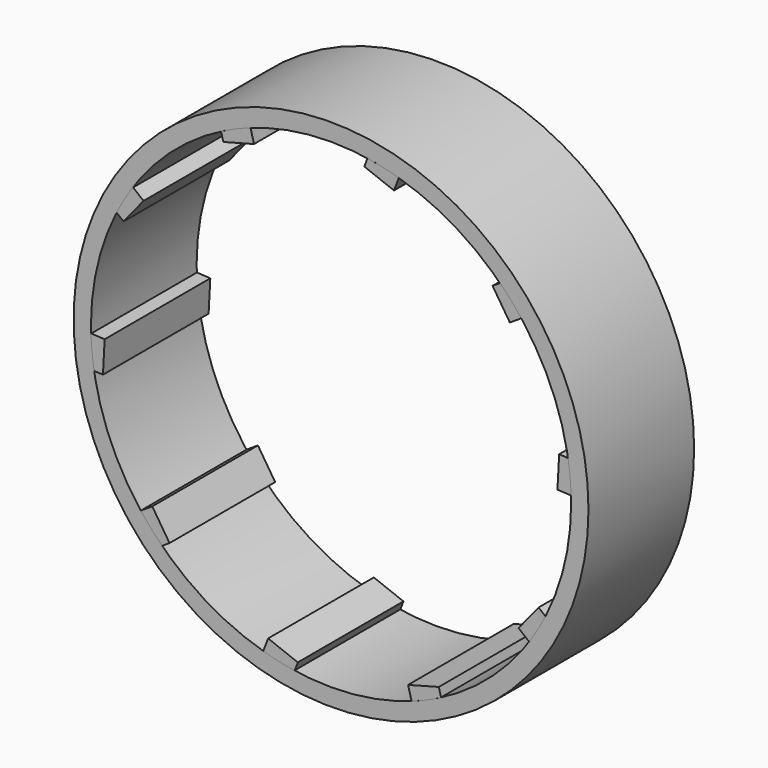
from build123d import *

# Parameters (mm, degrees)
F0_R     = 49.511786
F0_R_2   = 46.178523
F1_DEPTH = 25.4
F3_DEPTH = 25.4
F4_COUNT = 10


with BuildPart() as f1:
    # F0 (on Front) → F1 (new body)
    with BuildSketch(Plane.XZ):
        Circle(F0_R)
        Circle(F0_R_2, mode=Mode.SUBTRACT)
    extrude(amount=F1_DEPTH)


with BuildPart() as f3:
    # F2 (on face) → F3 (new body)
    with BuildSketch(Plane.XZ.offset(25.4)):
        with BuildLine():
            Line((-36.063623, 24.436552), (-38.100755, 26.091924))
            ThreePointArc((-38.100755, 26.091924), (-39.76168, 23.483287), (-41.244282, 20.769333))
            Line((-41.244282, 20.769333), (-39.918824, 19.692267))
            Line((-39.918824, 19.692267), (-36.063623, 24.436552))
        make_face()
    extrude(amount=-F3_DEPTH)


with BuildPart() as f4_1:
    # F4: instance of F3
    add(f3.part.rotate(Axis((0, 0, 0), (0, 1, 0)), 1 * 360 / F4_COUNT))


with BuildPart() as f4_2:
    # F4: instance of F3
    add(f3.part.rotate(Axis((0, 0, 0), (0, 1, 0)), 2 * 360 / F4_COUNT))


with BuildPart() as f4_3:
    # F4: instance of F3
    add(f3.part.rotate(Axis((0, 0, 0), (0, 1, 0)), 3 * 360 / F4_COUNT))


with BuildPart() as f4_4:
    # F4: instance of F3
    add(f3.part.rotate(Axis((0, 0, 0), (0, 1, 0)), 4 * 360 / F4_COUNT))


with BuildPart() as f4_5:
    # F4: instance of F3
    add(f3.part.rotate(Axis((0, 0, 0), (0, 1, 0)), 5 * 360 / F4_COUNT))


with BuildPart() as f4_6:
    # F4: instance of F3
    add(f3.part.rotate(Axis((0, 0, 0), (0, 1, 0)), 6 * 360 / F4_COUNT))


with BuildPart() as f4_7:
    # F4: instance of F3
    add(f3.part.rotate(Axis((0, 0, 0), (0, 1, 0)), 7 * 360 / F4_COUNT))


with BuildPart() as f4_8:
    # F4: instance of F3
    add(f3.part.rotate(Axis((0, 0, 0), (0, 1, 0)), 8 * 360 / F4_COUNT))


with BuildPart() as f4_9:
    # F4: instance of F3
    add(f3.part.rotate(Axis((0, 0, 0), (0, 1, 0)), 9 * 360 / F4_COUNT))


solid = Compound([f1.part, f3.part, f4_1.part, f4_2.part, f4_3.part, f4_4.part, f4_5.part, f4_6.part, f4_7.part, f4_8.part, f4_9.part])
